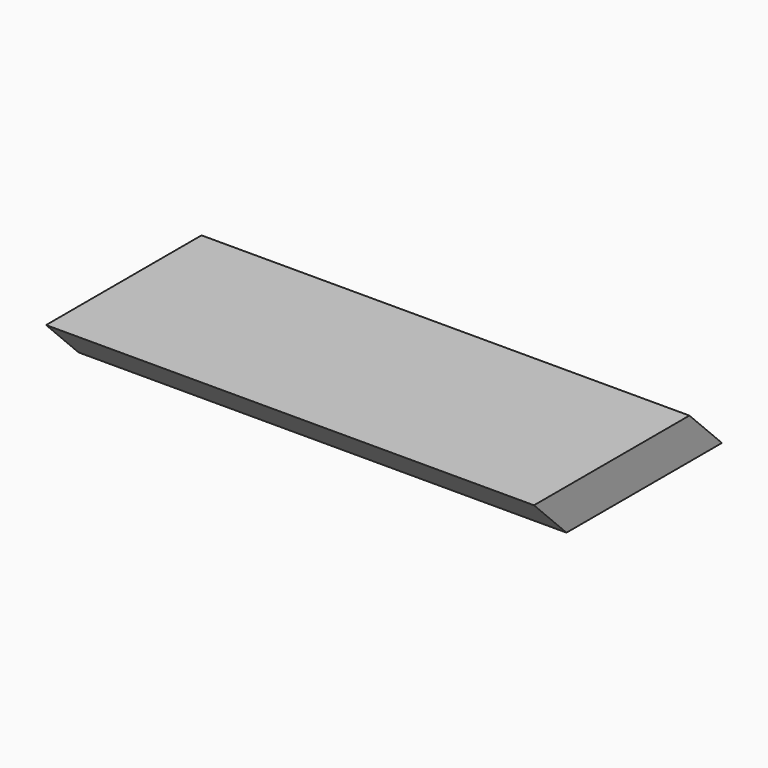
from build123d import *

# Parameters (mm, degrees)
F0_W     = 273.05
F0_H     = 228.6
F1_DEPTH = 228.6
F3_DEPTH = 228.6
F5_DEPTH = 228.6
F7_DEPTH = 228.6


with BuildPart() as f1:
    # F0 (on Right) → F1 (new body)
    with BuildSketch(Plane.YZ):
        with Locations((136.525, 114.3)):
            Rectangle(F0_W, F0_H)
    extrude(amount=-F1_DEPTH)

    # F2 (on face) → F3 (cut, through all)
    with BuildSketch(Plane.YZ):
        Polygon((182.0333333333, 139.7), (273.05, 139.7), (273.05, 228.6), (0, 228.6), (0, 0), (91.0166666667, 0), (91.0166666667, 69.85), (182.0333333333, 69.85), align=None)
    extrude(amount=-F3_DEPTH, mode=Mode.SUBTRACT)

    # F4 (on face) → F5 (cut, through all)
    with BuildSketch(Plane.YZ):
        Polygon((201.0833333333, 50.8), (110.0666666667, 50.8), (110.0666666667, 0), (273.05, 0), (273.05, 120.65), (201.0833333333, 120.65), align=None)
    extrude(amount=-F5_DEPTH, mode=Mode.SUBTRACT)

    # F6 (on face) → F7 (cut, through all)
    with BuildSketch(Plane.YZ):
        Polygon((273.05, 139.7), (182.0333333333, 139.7), (201.0833333333, 120.65), (273.05, 120.65), align=None)
        Polygon((182.0333333333, 139.7), (182.0333333333, 69.85), (201.0833333333, 50.8), (201.0833333333, 120.65), align=None)
        Polygon((110.0666666667, 50.8), (91.0166666667, 69.85), (91.0166666667, 0), (110.0666666667, 0), align=None)
    extrude(amount=-F7_DEPTH, mode=Mode.SUBTRACT)


solid = f1.part
